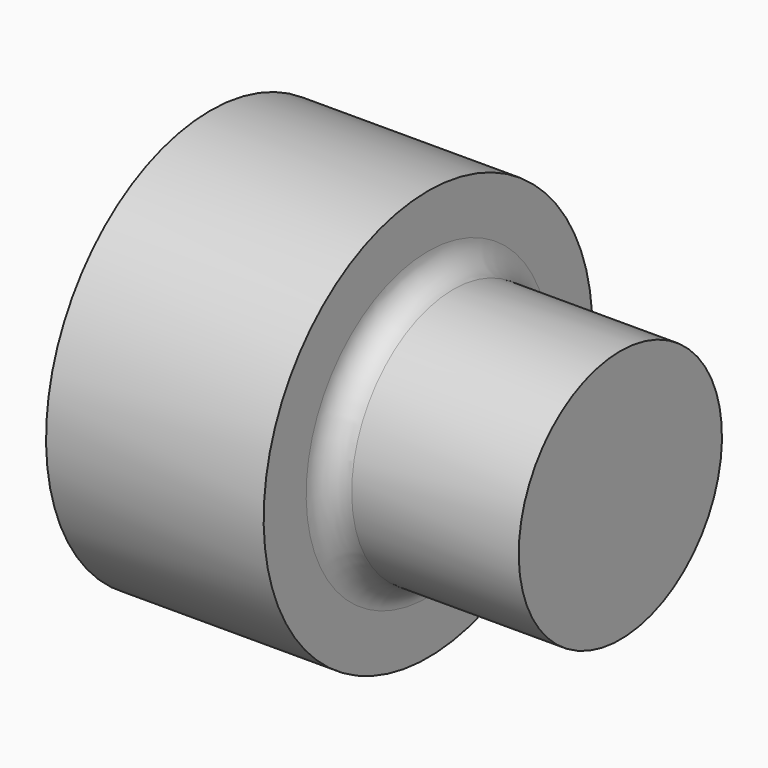
from build123d import *


with BuildPart() as f1:
    # F0 (on Front) → F1 (revolve)
    with BuildSketch(Plane.XZ):
        with BuildLine():
            Line((-22.206751, 0), (0, 0))
            Line((0, 0), (0, 6.3754))
            Line((0, 6.3754), (-8.382, 6.3754))
            ThreePointArc((-8.382, 6.3754), (-9.280026, 6.747374), (-9.652, 7.6454))
            Line((-9.652, 7.6454), (-9.652, 10.3124))
            Line((-9.652, 10.3124), (-20.574, 10.3124))
            ThreePointArc((-20.574, 10.3124), (-21.796037, 5.220428), (-22.206751, 0))
        make_face()
    revolve(axis=Axis((-6.86431, 0, 0), (-1, 0, 0)))


solid = f1.part
